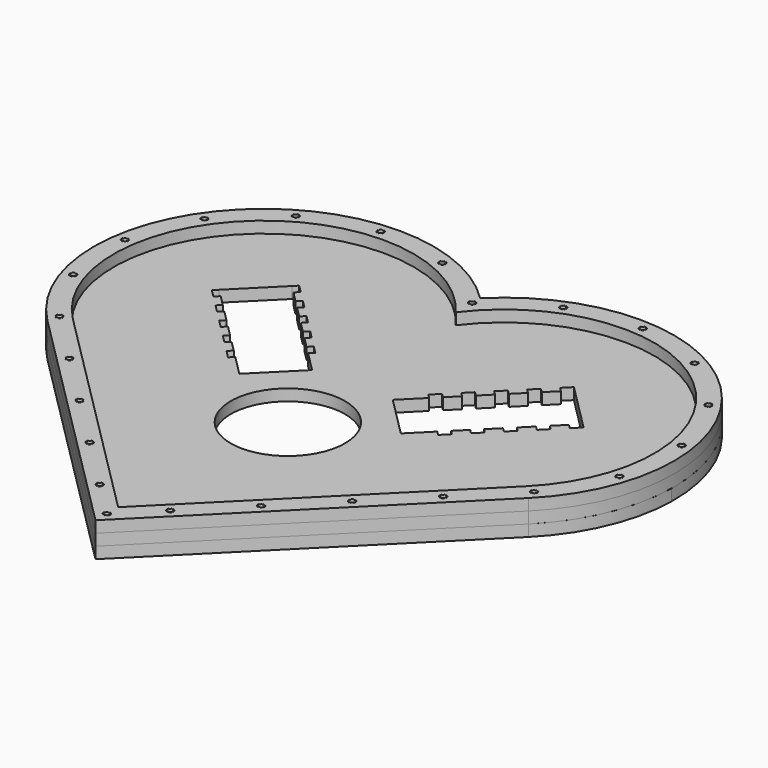
from build123d import *

# Parameters (mm, degrees)
F0_R     = 0.925
F0_R_2   = 20
F1_DEPTH = 4
F2_R     = 0.925
F3_DEPTH = 4
F4_R     = 0.925
F5_DEPTH = 4


with BuildPart() as f1:
    # F0 (on Top) → F1 (new body)
    with BuildSketch(Plane.XY):
        with BuildLine():
            Line((3.723077, -172.660318), (87.80843, -88.574965))
            ThreePointArc((87.80843, -88.574965), (87.80843, -4.489612), (3.723077, -4.489612))
            ThreePointArc((3.723077, -4.489612), (-80.362276, -4.489612), (-80.362276, -88.574965))
            Line((-80.362276, -88.574965), (3.723077, -172.660318))
        make_face()
        with BuildLine():
            Line((3.632598, -166.564135), (3.640466, -166.663825))
            ThreePointArc((3.640466, -166.663825), (2.673077, -167.710571), (3.640466, -168.757316))
            Line((3.640466, -168.757316), (3.632598, -168.857006))
            ThreePointArc((3.632598, -168.857006), (2.573077, -167.710571), (3.632598, -166.564135))
        make_face(mode=Mode.SUBTRACT)
        with Locations((3.723077, -167.710571)):
            Circle(F0_R, mode=Mode.SUBTRACT)
        with BuildLine():
            ThreePointArc((-8.682644, -156.541764), (-9.742165, -155.395329), (-8.682644, -154.248893))
            Line((-8.682644, -154.248893), (-8.674776, -154.348584))
            ThreePointArc((-8.674776, -154.348584), (-9.642165, -155.395329), (-8.674776, -156.442074))
            Line((-8.674776, -156.442074), (-8.682644, -156.541764))
        make_face(mode=Mode.SUBTRACT)
        with Locations((-8.592165, -155.395329)):
            Circle(F0_R, mode=Mode.SUBTRACT)
        with BuildLine():
            Line((-8.509554, -154.348584), (-8.501687, -154.248894))
            ThreePointArc((-8.501687, -154.248894), (-7.442165, -155.395329), (-8.501687, -156.541764))
            Line((-8.501687, -156.541764), (-8.509554, -156.442074))
            ThreePointArc((-8.509554, -156.442074), (-7.542165, -155.395329), (-8.509554, -154.348584))
        make_face(mode=Mode.SUBTRACT)
        with BuildLine():
            ThreePointArc((-26.360313, -138.864095), (-27.419835, -137.717659), (-26.360313, -136.571224))
            Line((-26.360313, -136.571224), (-26.352445, -136.670914))
            ThreePointArc((-26.352445, -136.670914), (-27.319835, -137.717659), (-26.352445, -138.764404))
            Line((-26.352445, -138.764404), (-26.360313, -138.864095))
        make_face(mode=Mode.SUBTRACT)
        with Locations((-26.269835, -137.717659)):
            Circle(F0_R, mode=Mode.SUBTRACT)
        with BuildLine():
            Line((-26.179356, -138.864095), (-26.187224, -138.764404))
            ThreePointArc((-26.187224, -138.764404), (-25.219835, -137.717659), (-26.187224, -136.670914))
            Line((-26.187224, -136.670914), (-26.179356, -136.571224))
            ThreePointArc((-26.179356, -136.571224), (-25.119835, -137.717659), (-26.179356, -138.864095))
        make_face(mode=Mode.SUBTRACT)
        with BuildLine():
            ThreePointArc((-79.360111, -83.612599), (-80.327501, -84.659344), (-79.360111, -85.70609))
            Line((-79.360111, -85.70609), (-79.367979, -85.80578))
            ThreePointArc((-79.367979, -85.80578), (-80.427501, -84.659344), (-79.367979, -83.512909))
            Line((-79.367979, -83.512909), (-79.360111, -83.612599))
        make_face(mode=Mode.SUBTRACT)
        with Locations((-79.277501, -84.659344)):
            Circle(F0_R, mode=Mode.SUBTRACT)
        with BuildLine():
            Line((-79.187022, -85.80578), (-79.19489, -85.70609))
            ThreePointArc((-79.19489, -85.70609), (-78.227501, -84.659344), (-79.19489, -83.612599))
            Line((-79.19489, -83.612599), (-79.187022, -83.512909))
            ThreePointArc((-79.187022, -83.512909), (-78.127501, -84.659344), (-79.187022, -85.80578))
        make_face(mode=Mode.SUBTRACT)
        with BuildLine():
            ThreePointArc((-61.707784, -101.315575), (-62.675174, -102.36232), (-61.707784, -103.409065))
            Line((-61.707784, -103.409065), (-61.715652, -103.508756))
            ThreePointArc((-61.715652, -103.508756), (-62.775174, -102.36232), (-61.715652, -101.215885))
            Line((-61.715652, -101.215885), (-61.707784, -101.315575))
        make_face(mode=Mode.SUBTRACT)
        with Locations((-61.625174, -102.36232)):
            Circle(F0_R, mode=Mode.SUBTRACT)
        with BuildLine():
            Line((-61.534695, -103.508755), (-61.542563, -103.409065))
            ThreePointArc((-61.542563, -103.409065), (-60.575174, -102.36232), (-61.542563, -101.315575))
            Line((-61.542563, -101.315575), (-61.534695, -101.215885))
            ThreePointArc((-61.534695, -101.215885), (-60.475174, -102.36232), (-61.534695, -103.508755))
        make_face(mode=Mode.SUBTRACT)
        with BuildLine():
            ThreePointArc((-44.030115, -118.993245), (-44.997504, -120.03999), (-44.030115, -121.086735))
            Line((-44.030115, -121.086735), (-44.037983, -121.186425))
            ThreePointArc((-44.037983, -121.186425), (-45.097504, -120.03999), (-44.037983, -118.893554))
            Line((-44.037983, -118.893554), (-44.030115, -118.993245))
        make_face(mode=Mode.SUBTRACT)
        with Locations((-43.947504, -120.03999)):
            Circle(F0_R, mode=Mode.SUBTRACT)
        with BuildLine():
            Line((-43.857026, -121.186425), (-43.864893, -121.086735))
            ThreePointArc((-43.864893, -121.086735), (-42.897504, -120.03999), (-43.864893, -118.993245))
            Line((-43.864893, -118.993245), (-43.857026, -118.893554))
            ThreePointArc((-43.857026, -118.893554), (-42.797504, -120.03999), (-43.857026, -121.186425))
        make_face(mode=Mode.SUBTRACT)
        with Locations((3.723077, -88.574965)):
            Circle(F0_R_2, mode=Mode.SUBTRACT)
        with BuildLine():
            Line((3.813555, -168.857006), (3.805687, -168.757316))
            ThreePointArc((3.805687, -168.757316), (4.773077, -167.710571), (3.805687, -166.663825))
            Line((3.805687, -166.663825), (3.813555, -166.564135))
            ThreePointArc((3.813555, -166.564135), (4.873077, -167.710571), (3.813555, -168.857006))
        make_face(mode=Mode.SUBTRACT)
        with BuildLine():
            Line((15.94784, -154.248894), (15.955708, -154.348584))
            ThreePointArc((15.955708, -154.348584), (14.988319, -155.395329), (15.955708, -156.442074))
            Line((15.955708, -156.442074), (15.94784, -156.541764))
            ThreePointArc((15.94784, -156.541764), (14.888319, -155.395329), (15.94784, -154.248894))
        make_face(mode=Mode.SUBTRACT)
        with Locations((16.038319, -155.395329)):
            Circle(F0_R, mode=Mode.SUBTRACT)
        with BuildLine():
            Line((16.128797, -156.541764), (16.120929, -156.442074))
            ThreePointArc((16.120929, -156.442074), (17.088319, -155.395329), (16.120929, -154.348584))
            Line((16.120929, -154.348584), (16.128797, -154.248893))
            ThreePointArc((16.128797, -154.248893), (17.188319, -155.395329), (16.128797, -156.541764))
        make_face(mode=Mode.SUBTRACT)
        with BuildLine():
            Line((33.62551, -136.571224), (33.633377, -136.670914))
            ThreePointArc((33.633377, -136.670914), (32.665988, -137.717659), (33.633377, -138.764404))
            Line((33.633377, -138.764404), (33.62551, -138.864095))
            ThreePointArc((33.62551, -138.864095), (32.565988, -137.717659), (33.62551, -136.571224))
        make_face(mode=Mode.SUBTRACT)
        with Locations((33.715988, -137.717659)):
            Circle(F0_R, mode=Mode.SUBTRACT)
        with BuildLine():
            Line((33.806467, -138.864095), (33.798599, -138.764404))
            ThreePointArc((33.798599, -138.764404), (34.765988, -137.717659), (33.798599, -136.670914))
            Line((33.798599, -136.670914), (33.806467, -136.571224))
            ThreePointArc((33.806467, -136.571224), (34.865988, -137.717659), (33.806467, -138.864095))
        make_face(mode=Mode.SUBTRACT)
        with BuildLine():
            Line((51.303179, -118.893554), (51.311047, -118.993245))
            ThreePointArc((51.311047, -118.993245), (50.343658, -120.03999), (51.311047, -121.086735))
            Line((51.311047, -121.086735), (51.303179, -121.186425))
            ThreePointArc((51.303179, -121.186425), (50.243658, -120.03999), (51.303179, -118.893554))
        make_face(mode=Mode.SUBTRACT)
        with Locations((51.393658, -120.03999)):
            Circle(F0_R, mode=Mode.SUBTRACT)
        with BuildLine():
            Line((51.484136, -121.186425), (51.476268, -121.086735))
            ThreePointArc((51.476268, -121.086735), (52.443658, -120.03999), (51.476268, -118.993245))
            Line((51.476268, -118.993245), (51.484136, -118.893554))
            ThreePointArc((51.484136, -118.893554), (52.543658, -120.03999), (51.484136, -121.186425))
        make_face(mode=Mode.SUBTRACT)
        with BuildLine():
            Line((68.980849, -101.215885), (68.988716, -101.315575))
            ThreePointArc((68.988716, -101.315575), (68.021327, -102.36232), (68.988716, -103.409065))
            Line((68.988716, -103.409065), (68.980849, -103.508755))
            ThreePointArc((68.980849, -103.508755), (67.921327, -102.36232), (68.980849, -101.215885))
        make_face(mode=Mode.SUBTRACT)
        with Locations((69.071327, -102.36232)):
            Circle(F0_R, mode=Mode.SUBTRACT)
        with BuildLine():
            Line((69.161806, -103.508756), (69.153938, -103.409065))
            ThreePointArc((69.153938, -103.409065), (70.121327, -102.36232), (69.153938, -101.315575))
            Line((69.153938, -101.315575), (69.161806, -101.215885))
            ThreePointArc((69.161806, -101.215885), (70.221327, -102.36232), (69.161806, -103.508756))
        make_face(mode=Mode.SUBTRACT)
        with BuildLine():
            Line((86.633176, -83.512909), (86.641043, -83.612599))
            ThreePointArc((86.641043, -83.612599), (85.673654, -84.659344), (86.641043, -85.70609))
            Line((86.641043, -85.70609), (86.633176, -85.80578))
            ThreePointArc((86.633176, -85.80578), (85.573654, -84.659344), (86.633176, -83.512909))
        make_face(mode=Mode.SUBTRACT)
        with Locations((86.723654, -84.659344)):
            Circle(F0_R, mode=Mode.SUBTRACT)
        with BuildLine():
            Line((86.814133, -85.80578), (86.806265, -85.70609))
            ThreePointArc((86.806265, -85.70609), (87.773654, -84.659344), (86.806265, -83.612599))
            Line((86.806265, -83.612599), (86.814133, -83.512909))
            ThreePointArc((86.814133, -83.512909), (87.873654, -84.659344), (86.814133, -85.80578))
        make_face(mode=Mode.SUBTRACT)
        with BuildLine():
            ThreePointArc((-91.883874, -64.164329), (-92.943396, -63.017894), (-91.883874, -61.871459))
            Line((-91.883874, -61.871459), (-91.876006, -61.971149))
            ThreePointArc((-91.876006, -61.971149), (-92.843396, -63.017894), (-91.876006, -64.064639))
            Line((-91.876006, -64.064639), (-91.883874, -64.164329))
        make_face(mode=Mode.SUBTRACT)
        with Locations((-91.793396, -63.017894)):
            Circle(F0_R, mode=Mode.SUBTRACT)
        with BuildLine():
            Line((-91.702917, -64.164329), (-91.710785, -64.064639))
            ThreePointArc((-91.710785, -64.064639), (-90.743396, -63.017894), (-91.710785, -61.971149))
            Line((-91.710785, -61.971149), (-91.702917, -61.871459))
            ThreePointArc((-91.702917, -61.871459), (-90.643396, -63.017894), (-91.702917, -64.164329))
        make_face(mode=Mode.SUBTRACT)
        with BuildLine():
            ThreePointArc((-93.718394, -37.039129), (-94.685783, -38.085874), (-93.718394, -39.13262))
            Line((-93.718394, -39.13262), (-93.726262, -39.23231))
            ThreePointArc((-93.726262, -39.23231), (-94.785783, -38.085874), (-93.726262, -36.939439))
            Line((-93.726262, -36.939439), (-93.718394, -37.039129))
        make_face(mode=Mode.SUBTRACT)
        with Locations((-93.635783, -38.085874)):
            Circle(F0_R, mode=Mode.SUBTRACT)
        with BuildLine():
            Line((-93.553172, -37.039129), (-93.545305, -36.939439))
            ThreePointArc((-93.545305, -36.939439), (-92.485783, -38.085874), (-93.545305, -39.23231))
            Line((-93.545305, -39.23231), (-93.553172, -39.13262))
            ThreePointArc((-93.553172, -39.13262), (-92.585783, -38.085874), (-93.553172, -37.039129))
        make_face(mode=Mode.SUBTRACT)
        Polygon((-53.474751, -45.519273), (-57.187061, -41.806962), (-58.601275, -43.221176), (-61.288281, -40.53417), (-59.874067, -39.119957), (-52.802999, -32.048889), (-45.731931, -24.977821), (-44.317718, -23.563607), (-41.630712, -26.250613), (-43.044926, -27.664827), (-39.332615, -31.377137), (-37.918402, -29.962924), (-35.231396, -32.64993), (-36.645609, -34.064143), (-32.933299, -37.776454), (-31.519085, -36.36224), (-28.832079, -39.049246), (-30.246293, -40.46346), (-26.533982, -44.17577), (-25.119769, -42.761557), (-22.432763, -45.448562), (-23.846977, -46.862776), (-20.134666, -50.575087), (-18.720452, -49.160873), (-16.033447, -51.847879), (-17.44766, -53.262092), (-10.376592, -60.33316), (-17.44766, -67.404228), (-24.518728, -74.475296), (-31.589796, -67.404228), (-33.004009, -68.818441), (-35.691015, -66.131436), (-34.276802, -64.717222), (-37.989112, -61.004912), (-39.403326, -62.419125), (-42.090332, -59.732119), (-40.676118, -58.317906), (-44.388429, -54.605595), (-45.802642, -56.019809), (-48.489648, -53.332803), (-47.075434, -51.918589), (-50.787745, -48.206279), (-52.201959, -49.620492), (-54.888964, -46.933487), align=None, mode=Mode.SUBTRACT)
        with BuildLine():
            ThreePointArc((-84.527396, -15.986216), (-85.586918, -14.839781), (-84.527396, -13.693345))
            Line((-84.527396, -13.693345), (-84.519528, -13.793035))
            ThreePointArc((-84.519528, -13.793035), (-85.486918, -14.839781), (-84.519528, -15.886526))
            Line((-84.519528, -15.886526), (-84.527396, -15.986216))
        make_face(mode=Mode.SUBTRACT)
        with Locations((-84.436918, -14.839781)):
            Circle(F0_R, mode=Mode.SUBTRACT)
        with BuildLine():
            Line((-84.354307, -13.793035), (-84.346439, -13.693345))
            ThreePointArc((-84.346439, -13.693345), (-83.286918, -14.839781), (-84.346439, -15.986216))
            Line((-84.346439, -15.986216), (-84.354307, -15.886526))
            ThreePointArc((-84.354307, -15.886526), (-83.386918, -14.839781), (-84.354307, -13.793035))
        make_face(mode=Mode.SUBTRACT)
        with BuildLine():
            ThreePointArc((-66.123395, 0.933971), (-67.182917, 2.080407), (-66.123395, 3.226842))
            Line((-66.123395, 3.226842), (-66.115527, 3.127152))
            ThreePointArc((-66.115527, 3.127152), (-67.082917, 2.080407), (-66.115527, 1.033662))
            Line((-66.115527, 1.033662), (-66.123395, 0.933971))
        make_face(mode=Mode.SUBTRACT)
        with Locations((-66.032917, 2.080407)):
            Circle(F0_R, mode=Mode.SUBTRACT)
        with BuildLine():
            Line((-65.950306, 3.127152), (-65.942438, 3.226842))
            ThreePointArc((-65.942438, 3.226842), (-64.882916, 2.080407), (-65.942438, 0.933972))
            Line((-65.942438, 0.933972), (-65.950306, 1.033662))
            ThreePointArc((-65.950306, 1.033662), (-64.982917, 2.080407), (-65.950306, 3.127152))
        make_face(mode=Mode.SUBTRACT)
        with BuildLine():
            ThreePointArc((-42.187744, 8.15094), (-43.247266, 9.297375), (-42.187744, 10.44381))
            Line((-42.187744, 10.44381), (-42.179877, 10.34412))
            ThreePointArc((-42.179877, 10.34412), (-43.147266, 9.297375), (-42.179877, 8.25063))
            Line((-42.179877, 8.25063), (-42.187744, 8.15094))
        make_face(mode=Mode.SUBTRACT)
        with Locations((-42.097266, 9.297375)):
            Circle(F0_R, mode=Mode.SUBTRACT)
        with BuildLine():
            Line((-42.014655, 10.34412), (-42.006787, 10.44381))
            ThreePointArc((-42.006787, 10.44381), (-40.947266, 9.297375), (-42.006787, 8.15094))
            Line((-42.006787, 8.15094), (-42.014655, 8.25063))
            ThreePointArc((-42.014655, 8.25063), (-41.047266, 9.297375), (-42.014655, 10.34412))
        make_face(mode=Mode.SUBTRACT)
        with BuildLine():
            Line((3.632598, -6.843176), (3.640466, -6.942866))
            ThreePointArc((3.640466, -6.942866), (2.673077, -7.989612), (3.640466, -9.036357))
            Line((3.640466, -9.036357), (3.632598, -9.136047))
            ThreePointArc((3.632598, -9.136047), (2.573077, -7.989612), (3.632598, -6.843176))
        make_face(mode=Mode.SUBTRACT)
        with BuildLine():
            ThreePointArc((-17.490194, 6.417343), (-18.457583, 5.370598), (-17.490194, 4.323853))
            Line((-17.490194, 4.323853), (-17.498062, 4.224163))
            ThreePointArc((-17.498062, 4.224163), (-18.557584, 5.370598), (-17.498062, 6.517033))
            Line((-17.498062, 6.517033), (-17.490194, 6.417343))
        make_face(mode=Mode.SUBTRACT)
        with Locations((-17.407583, 5.370598)):
            Circle(F0_R, mode=Mode.SUBTRACT)
        with BuildLine():
            Line((-17.317105, 4.224163), (-17.324973, 4.323853))
            ThreePointArc((-17.324973, 4.323853), (-16.357583, 5.370598), (-17.324973, 6.417343))
            Line((-17.324973, 6.417343), (-17.317105, 6.517033))
            ThreePointArc((-17.317105, 6.517033), (-16.257583, 5.370598), (-17.317105, 4.224163))
        make_face(mode=Mode.SUBTRACT)
        Polygon((67.320221, -39.119957), (68.734434, -40.53417), (66.047428, -43.221176), (64.633215, -41.806962), (60.920904, -45.519273), (62.335118, -46.933487), (59.648112, -49.620492), (58.233898, -48.206279), (54.521588, -51.918589), (55.935801, -53.332803), (53.248796, -56.019809), (51.834582, -54.605595), (48.122271, -58.317906), (49.536485, -59.732119), (46.849479, -62.419125), (45.435266, -61.004912), (41.722955, -64.717222), (43.137169, -66.131436), (40.450163, -68.818441), (39.035949, -67.404228), (31.964881, -74.475296), (24.893814, -67.404228), (17.822746, -60.33316), (24.893814, -53.262092), (23.4796, -51.847879), (26.166606, -49.160873), (27.580819, -50.575087), (31.29313, -46.862776), (29.878916, -45.448562), (32.565922, -42.761557), (33.980136, -44.17577), (37.692446, -40.46346), (36.278233, -39.049246), (38.965239, -36.36224), (40.379452, -37.776454), (44.091763, -34.064143), (42.677549, -32.64993), (45.364555, -29.962924), (46.778769, -31.377137), (50.491079, -27.664827), (49.076866, -26.250613), (51.763871, -23.563607), (53.178085, -24.977821), (60.249153, -32.048889), align=None, mode=Mode.SUBTRACT)
        with BuildLine():
            Line((99.149071, -61.871459), (99.156938, -61.971149))
            ThreePointArc((99.156938, -61.971149), (98.189549, -63.017894), (99.156938, -64.064639))
            Line((99.156938, -64.064639), (99.149071, -64.164329))
            ThreePointArc((99.149071, -64.164329), (98.089549, -63.017894), (99.149071, -61.871459))
        make_face(mode=Mode.SUBTRACT)
        with Locations((99.239549, -63.017894)):
            Circle(F0_R, mode=Mode.SUBTRACT)
        with BuildLine():
            Line((99.330028, -64.164329), (99.32216, -64.064639))
            ThreePointArc((99.32216, -64.064639), (100.289549, -63.017894), (99.32216, -61.971149))
            Line((99.32216, -61.971149), (99.330028, -61.871459))
            ThreePointArc((99.330028, -61.871459), (100.389549, -63.017894), (99.330028, -64.164329))
        make_face(mode=Mode.SUBTRACT)
        with BuildLine():
            Line((100.991458, -36.939439), (100.999326, -37.039129))
            ThreePointArc((100.999326, -37.039129), (100.031937, -38.085874), (100.999326, -39.13262))
            Line((100.999326, -39.13262), (100.991458, -39.23231))
            ThreePointArc((100.991458, -39.23231), (99.931937, -38.085874), (100.991458, -36.939439))
        make_face(mode=Mode.SUBTRACT)
        with Locations((101.081937, -38.085874)):
            Circle(F0_R, mode=Mode.SUBTRACT)
        with BuildLine():
            Line((101.172415, -39.23231), (101.164547, -39.13262))
            ThreePointArc((101.164547, -39.13262), (102.131937, -38.085874), (101.164547, -37.039129))
            Line((101.164547, -37.039129), (101.172415, -36.939439))
            ThreePointArc((101.172415, -36.939439), (102.231937, -38.085874), (101.172415, -39.23231))
        make_face(mode=Mode.SUBTRACT)
        with Locations((3.723077, -7.989612)):
            Circle(F0_R, mode=Mode.SUBTRACT)
        with BuildLine():
            Line((3.813555, -9.136047), (3.805687, -9.036357))
            ThreePointArc((3.805687, -9.036357), (4.773077, -7.989612), (3.805687, -6.942866))
            Line((3.805687, -6.942866), (3.813555, -6.843176))
            ThreePointArc((3.813555, -6.843176), (4.873077, -7.989612), (3.813555, -9.136047))
        make_face(mode=Mode.SUBTRACT)
        with BuildLine():
            Line((24.763258, 6.517033), (24.771126, 6.417343))
            ThreePointArc((24.771126, 6.417343), (23.803737, 5.370598), (24.771126, 4.323853))
            Line((24.771126, 4.323853), (24.763258, 4.224163))
            ThreePointArc((24.763258, 4.224163), (23.703737, 5.370598), (24.763258, 6.517033))
        make_face(mode=Mode.SUBTRACT)
        with Locations((24.853737, 5.370598)):
            Circle(F0_R, mode=Mode.SUBTRACT)
        with BuildLine():
            Line((24.944215, 4.224163), (24.936348, 4.323853))
            ThreePointArc((24.936348, 4.323853), (25.903737, 5.370598), (24.936348, 6.417343))
            Line((24.936348, 6.417343), (24.944215, 6.517033))
            ThreePointArc((24.944215, 6.517033), (26.003737, 5.370598), (24.944215, 4.224163))
        make_face(mode=Mode.SUBTRACT)
        with BuildLine():
            Line((49.452941, 10.44381), (49.460809, 10.34412))
            ThreePointArc((49.460809, 10.34412), (48.493419, 9.297375), (49.460809, 8.25063))
            Line((49.460809, 8.25063), (49.452941, 8.15094))
            ThreePointArc((49.452941, 8.15094), (48.393419, 9.297375), (49.452941, 10.44381))
        make_face(mode=Mode.SUBTRACT)
        with Locations((49.543419, 9.297375)):
            Circle(F0_R, mode=Mode.SUBTRACT)
        with BuildLine():
            Line((49.633898, 8.15094), (49.62603, 8.25063))
            ThreePointArc((49.62603, 8.25063), (50.593419, 9.297375), (49.62603, 10.34412))
            Line((49.62603, 10.34412), (49.633898, 10.44381))
            ThreePointArc((49.633898, 10.44381), (50.69342, 9.297375), (49.633898, 8.15094))
        make_face(mode=Mode.SUBTRACT)
        with BuildLine():
            Line((91.792593, -13.693345), (91.80046, -13.793035))
            ThreePointArc((91.80046, -13.793035), (90.833071, -14.839781), (91.80046, -15.886526))
            Line((91.80046, -15.886526), (91.792593, -15.986216))
            ThreePointArc((91.792593, -15.986216), (90.733071, -14.839781), (91.792593, -13.693345))
        make_face(mode=Mode.SUBTRACT)
        with Locations((91.883071, -14.839781)):
            Circle(F0_R, mode=Mode.SUBTRACT)
        with BuildLine():
            Line((91.97355, -15.986216), (91.965682, -15.886526))
            ThreePointArc((91.965682, -15.886526), (92.933071, -14.839781), (91.965682, -13.793035))
            Line((91.965682, -13.793035), (91.97355, -13.693345))
            ThreePointArc((91.97355, -13.693345), (93.033071, -14.839781), (91.97355, -15.986216))
        make_face(mode=Mode.SUBTRACT)
        with BuildLine():
            Line((73.388592, 3.226842), (73.396459, 3.127152))
            ThreePointArc((73.396459, 3.127152), (72.42907, 2.080407), (73.396459, 1.033662))
            Line((73.396459, 1.033662), (73.388592, 0.933972))
            ThreePointArc((73.388592, 0.933972), (72.32907, 2.080407), (73.388592, 3.226842))
        make_face(mode=Mode.SUBTRACT)
        with Locations((73.47907, 2.080407)):
            Circle(F0_R, mode=Mode.SUBTRACT)
        with BuildLine():
            Line((73.569548, 0.933971), (73.561681, 1.033662))
            ThreePointArc((73.561681, 1.033662), (74.52907, 2.080407), (73.561681, 3.127152))
            Line((73.561681, 3.127152), (73.569548, 3.226842))
            ThreePointArc((73.569548, 3.226842), (74.62907, 2.080407), (73.569548, 0.933971))
        make_face(mode=Mode.SUBTRACT)
    extrude(amount=F1_DEPTH)


with BuildPart() as f3:
    # F2 (on face) → F3 (new body)
    with BuildSketch(Plane.XY.offset(4)):
        with BuildLine():
            ThreePointArc((3.723077, -4.489614), (-80.362274, -4.489612), (-80.362275, -88.574963))
            Line((-80.362275, -88.574963), (3.723077, -172.660316))
            Line((3.723077, -172.660316), (87.808429, -88.574964))
            ThreePointArc((87.808429, -88.574964), (87.808428, -4.489612), (3.723077, -4.489614))
        make_face()
        with BuildLine():
            ThreePointArc((3.632598, -168.857006), (2.573077, -167.710571), (3.632598, -166.564135))
            Line((3.632598, -166.564135), (3.640466, -166.663825))
            ThreePointArc((3.640466, -166.663825), (2.673077, -167.710571), (3.640466, -168.757316))
            Line((3.640466, -168.757316), (3.632598, -168.857006))
        make_face(mode=Mode.SUBTRACT)
        with Locations((3.723077, -167.710571)):
            Circle(F2_R, mode=Mode.SUBTRACT)
        with BuildLine():
            Line((-8.674776, -156.442074), (-8.682644, -156.541764))
            ThreePointArc((-8.682644, -156.541764), (-9.742165, -155.395329), (-8.682644, -154.248893))
            Line((-8.682644, -154.248893), (-8.674776, -154.348584))
            ThreePointArc((-8.674776, -154.348584), (-9.642165, -155.395329), (-8.674776, -156.442074))
        make_face(mode=Mode.SUBTRACT)
        with Locations((-8.592165, -155.395329)):
            Circle(F2_R, mode=Mode.SUBTRACT)
        with BuildLine():
            Line((-8.501687, -156.541764), (-8.509554, -156.442074))
            ThreePointArc((-8.509554, -156.442074), (-7.542165, -155.395329), (-8.509554, -154.348584))
            Line((-8.509554, -154.348584), (-8.501687, -154.248894))
            ThreePointArc((-8.501687, -154.248894), (-7.442165, -155.395329), (-8.501687, -156.541764))
        make_face(mode=Mode.SUBTRACT)
        with BuildLine():
            Line((-26.352445, -138.764404), (-26.360313, -138.864095))
            ThreePointArc((-26.360313, -138.864095), (-27.419835, -137.717659), (-26.360313, -136.571224))
            Line((-26.360313, -136.571224), (-26.352445, -136.670914))
            ThreePointArc((-26.352445, -136.670914), (-27.319835, -137.717659), (-26.352445, -138.764404))
        make_face(mode=Mode.SUBTRACT)
        with Locations((-26.269835, -137.717659)):
            Circle(F2_R, mode=Mode.SUBTRACT)
        with BuildLine():
            ThreePointArc((-26.187224, -138.764404), (-25.219835, -137.717659), (-26.187224, -136.670914))
            Line((-26.187224, -136.670914), (-26.179356, -136.571224))
            ThreePointArc((-26.179356, -136.571224), (-25.119835, -137.717659), (-26.179356, -138.864095))
            Line((-26.179356, -138.864095), (-26.187224, -138.764404))
        make_face(mode=Mode.SUBTRACT)
        with BuildLine():
            ThreePointArc((-79.367979, -85.80578), (-80.427501, -84.659344), (-79.367979, -83.512909))
            Line((-79.367979, -83.512909), (-79.360111, -83.612599))
            ThreePointArc((-79.360111, -83.612599), (-80.327501, -84.659344), (-79.360111, -85.70609))
            Line((-79.360111, -85.70609), (-79.367979, -85.80578))
        make_face(mode=Mode.SUBTRACT)
        with Locations((-79.277501, -84.659344)):
            Circle(F2_R, mode=Mode.SUBTRACT)
        with BuildLine():
            ThreePointArc((-79.19489, -85.70609), (-78.227501, -84.659344), (-79.19489, -83.612599))
            Line((-79.19489, -83.612599), (-79.187022, -83.512909))
            ThreePointArc((-79.187022, -83.512909), (-78.127501, -84.659344), (-79.187022, -85.80578))
            Line((-79.187022, -85.80578), (-79.19489, -85.70609))
        make_face(mode=Mode.SUBTRACT)
        with BuildLine():
            Line((-61.715652, -101.215885), (-61.707784, -101.315575))
            ThreePointArc((-61.707784, -101.315575), (-62.675174, -102.36232), (-61.707784, -103.409065))
            Line((-61.707784, -103.409065), (-61.715652, -103.508756))
            ThreePointArc((-61.715652, -103.508756), (-62.775174, -102.36232), (-61.715652, -101.215885))
        make_face(mode=Mode.SUBTRACT)
        with Locations((-61.625174, -102.36232)):
            Circle(F2_R, mode=Mode.SUBTRACT)
        with BuildLine():
            ThreePointArc((-61.534695, -101.215885), (-60.475174, -102.36232), (-61.534695, -103.508755))
            Line((-61.534695, -103.508755), (-61.542563, -103.409065))
            ThreePointArc((-61.542563, -103.409065), (-60.575174, -102.36232), (-61.542563, -101.315575))
            Line((-61.542563, -101.315575), (-61.534695, -101.215885))
        make_face(mode=Mode.SUBTRACT)
        with BuildLine():
            ThreePointArc((-44.037983, -121.186425), (-45.097504, -120.03999), (-44.037983, -118.893554))
            Line((-44.037983, -118.893554), (-44.030115, -118.993245))
            ThreePointArc((-44.030115, -118.993245), (-44.997504, -120.03999), (-44.030115, -121.086735))
            Line((-44.030115, -121.086735), (-44.037983, -121.186425))
        make_face(mode=Mode.SUBTRACT)
        with Locations((-43.947504, -120.03999)):
            Circle(F2_R, mode=Mode.SUBTRACT)
        with BuildLine():
            ThreePointArc((-43.857026, -118.893554), (-42.797504, -120.03999), (-43.857026, -121.186425))
            Line((-43.857026, -121.186425), (-43.864893, -121.086735))
            ThreePointArc((-43.864893, -121.086735), (-42.897504, -120.03999), (-43.864893, -118.993245))
            Line((-43.864893, -118.993245), (-43.857026, -118.893554))
        make_face(mode=Mode.SUBTRACT)
        with BuildLine():
            ThreePointArc((3.813555, -166.564135), (4.873077, -167.710571), (3.813555, -168.857006))
            Line((3.813555, -168.857006), (3.805687, -168.757316))
            ThreePointArc((3.805687, -168.757316), (4.773077, -167.710571), (3.805687, -166.663825))
            Line((3.805687, -166.663825), (3.813555, -166.564135))
        make_face(mode=Mode.SUBTRACT)
        with BuildLine():
            Line((15.955708, -156.442074), (15.94784, -156.541764))
            ThreePointArc((15.94784, -156.541764), (14.888319, -155.395329), (15.94784, -154.248894))
            Line((15.94784, -154.248894), (15.955708, -154.348584))
            ThreePointArc((15.955708, -154.348584), (14.988319, -155.395329), (15.955708, -156.442074))
        make_face(mode=Mode.SUBTRACT)
        with Locations((16.038319, -155.395329)):
            Circle(F2_R, mode=Mode.SUBTRACT)
        with BuildLine():
            ThreePointArc((16.128797, -154.248893), (17.188319, -155.395329), (16.128797, -156.541764))
            Line((16.128797, -156.541764), (16.120929, -156.442074))
            ThreePointArc((16.120929, -156.442074), (17.088319, -155.395329), (16.120929, -154.348584))
            Line((16.120929, -154.348584), (16.128797, -154.248893))
        make_face(mode=Mode.SUBTRACT)
        with BuildLine():
            ThreePointArc((33.633377, -136.670914), (32.665988, -137.717659), (33.633377, -138.764404))
            Line((33.633377, -138.764404), (33.62551, -138.864095))
            ThreePointArc((33.62551, -138.864095), (32.565988, -137.717659), (33.62551, -136.571224))
            Line((33.62551, -136.571224), (33.633377, -136.670914))
        make_face(mode=Mode.SUBTRACT)
        with Locations((33.715988, -137.717659)):
            Circle(F2_R, mode=Mode.SUBTRACT)
        with BuildLine():
            ThreePointArc((33.806467, -136.571224), (34.865988, -137.717659), (33.806467, -138.864095))
            Line((33.806467, -138.864095), (33.798599, -138.764404))
            ThreePointArc((33.798599, -138.764404), (34.765988, -137.717659), (33.798599, -136.670914))
            Line((33.798599, -136.670914), (33.806467, -136.571224))
        make_face(mode=Mode.SUBTRACT)
        with BuildLine():
            Line((51.311047, -121.086735), (51.303179, -121.186425))
            ThreePointArc((51.303179, -121.186425), (50.243658, -120.03999), (51.303179, -118.893554))
            Line((51.303179, -118.893554), (51.311047, -118.993245))
            ThreePointArc((51.311047, -118.993245), (50.343658, -120.03999), (51.311047, -121.086735))
        make_face(mode=Mode.SUBTRACT)
        with Locations((51.393658, -120.03999)):
            Circle(F2_R, mode=Mode.SUBTRACT)
        with BuildLine():
            ThreePointArc((51.484136, -118.893554), (52.543658, -120.03999), (51.484136, -121.186425))
            Line((51.484136, -121.186425), (51.476268, -121.086735))
            ThreePointArc((51.476268, -121.086735), (52.443658, -120.03999), (51.476268, -118.993245))
            Line((51.476268, -118.993245), (51.484136, -118.893554))
        make_face(mode=Mode.SUBTRACT)
        with BuildLine():
            ThreePointArc((68.980849, -103.508755), (67.921327, -102.36232), (68.980849, -101.215885))
            Line((68.980849, -101.215885), (68.988716, -101.315575))
            ThreePointArc((68.988716, -101.315575), (68.021327, -102.36232), (68.988716, -103.409065))
            Line((68.988716, -103.409065), (68.980849, -103.508755))
        make_face(mode=Mode.SUBTRACT)
        with Locations((69.071327, -102.36232)):
            Circle(F2_R, mode=Mode.SUBTRACT)
        with BuildLine():
            Line((69.153938, -101.315575), (69.161806, -101.215885))
            ThreePointArc((69.161806, -101.215885), (70.221327, -102.36232), (69.161806, -103.508756))
            Line((69.161806, -103.508756), (69.153938, -103.409065))
            ThreePointArc((69.153938, -103.409065), (70.121327, -102.36232), (69.153938, -101.315575))
        make_face(mode=Mode.SUBTRACT)
        with BuildLine():
            ThreePointArc((86.641043, -83.612599), (85.673654, -84.659344), (86.641043, -85.70609))
            Line((86.641043, -85.70609), (86.633176, -85.80578))
            ThreePointArc((86.633176, -85.80578), (85.573654, -84.659344), (86.633176, -83.512909))
            Line((86.633176, -83.512909), (86.641043, -83.612599))
        make_face(mode=Mode.SUBTRACT)
        with Locations((86.723654, -84.659344)):
            Circle(F2_R, mode=Mode.SUBTRACT)
        with BuildLine():
            ThreePointArc((86.814133, -83.512909), (87.873654, -84.659344), (86.814133, -85.80578))
            Line((86.814133, -85.80578), (86.806265, -85.70609))
            ThreePointArc((86.806265, -85.70609), (87.773654, -84.659344), (86.806265, -83.612599))
            Line((86.806265, -83.612599), (86.814133, -83.512909))
        make_face(mode=Mode.SUBTRACT)
        with BuildLine():
            ThreePointArc((-91.883874, -64.164329), (-92.943396, -63.017894), (-91.883874, -61.871459))
            Line((-91.883874, -61.871459), (-91.876006, -61.971149))
            ThreePointArc((-91.876006, -61.971149), (-92.843396, -63.017894), (-91.876006, -64.064639))
            Line((-91.876006, -64.064639), (-91.883874, -64.164329))
        make_face(mode=Mode.SUBTRACT)
        with Locations((-91.793396, -63.017894)):
            Circle(F2_R, mode=Mode.SUBTRACT)
        with BuildLine():
            Line((-91.710785, -61.971149), (-91.702917, -61.871459))
            ThreePointArc((-91.702917, -61.871459), (-90.643396, -63.017894), (-91.702917, -64.164329))
            Line((-91.702917, -64.164329), (-91.710785, -64.064639))
            ThreePointArc((-91.710785, -64.064639), (-90.743396, -63.017894), (-91.710785, -61.971149))
        make_face(mode=Mode.SUBTRACT)
        with BuildLine():
            Line((-93.718394, -39.13262), (-93.726262, -39.23231))
            ThreePointArc((-93.726262, -39.23231), (-94.785783, -38.085874), (-93.726262, -36.939439))
            Line((-93.726262, -36.939439), (-93.718394, -37.039129))
            ThreePointArc((-93.718394, -37.039129), (-94.685783, -38.085874), (-93.718394, -39.13262))
        make_face(mode=Mode.SUBTRACT)
        with Locations((-93.635783, -38.085874)):
            Circle(F2_R, mode=Mode.SUBTRACT)
        with BuildLine():
            Line((-93.545305, -39.23231), (-93.553172, -39.13262))
            ThreePointArc((-93.553172, -39.13262), (-92.585783, -38.085874), (-93.553172, -37.039129))
            Line((-93.553172, -37.039129), (-93.545305, -36.939439))
            ThreePointArc((-93.545305, -36.939439), (-92.485783, -38.085874), (-93.545305, -39.23231))
        make_face(mode=Mode.SUBTRACT)
        with BuildLine():
            Line((-84.519528, -15.886526), (-84.527396, -15.986216))
            ThreePointArc((-84.527396, -15.986216), (-85.586918, -14.839781), (-84.527396, -13.693345))
            Line((-84.527396, -13.693345), (-84.519528, -13.793035))
            ThreePointArc((-84.519528, -13.793035), (-85.486918, -14.839781), (-84.519528, -15.886526))
        make_face(mode=Mode.SUBTRACT)
        with Locations((-84.436918, -14.839781)):
            Circle(F2_R, mode=Mode.SUBTRACT)
        with BuildLine():
            ThreePointArc((-84.354307, -15.886526), (-83.386918, -14.839781), (-84.354307, -13.793035))
            Line((-84.354307, -13.793035), (-84.346439, -13.693345))
            ThreePointArc((-84.346439, -13.693345), (-83.286918, -14.839781), (-84.346439, -15.986216))
            Line((-84.346439, -15.986216), (-84.354307, -15.886526))
        make_face(mode=Mode.SUBTRACT)
        with BuildLine():
            ThreePointArc((-66.115527, 3.127152), (-67.082917, 2.080407), (-66.115527, 1.033662))
            Line((-66.115527, 1.033662), (-66.123395, 0.933971))
            ThreePointArc((-66.123395, 0.933971), (-67.182917, 2.080407), (-66.123395, 3.226842))
            Line((-66.123395, 3.226842), (-66.115527, 3.127152))
        make_face(mode=Mode.SUBTRACT)
        with Locations((-66.032917, 2.080407)):
            Circle(F2_R, mode=Mode.SUBTRACT)
        with BuildLine():
            ThreePointArc((-65.950306, 1.033662), (-64.982917, 2.080407), (-65.950306, 3.127152))
            Line((-65.950306, 3.127152), (-65.942438, 3.226842))
            ThreePointArc((-65.942438, 3.226842), (-64.882916, 2.080407), (-65.942438, 0.933972))
            Line((-65.942438, 0.933972), (-65.950306, 1.033662))
        make_face(mode=Mode.SUBTRACT)
        with BuildLine():
            Line((-42.179877, 8.25063), (-42.187744, 8.15094))
            ThreePointArc((-42.187744, 8.15094), (-43.247266, 9.297375), (-42.187744, 10.44381))
            Line((-42.187744, 10.44381), (-42.179877, 10.34412))
            ThreePointArc((-42.179877, 10.34412), (-43.147266, 9.297375), (-42.179877, 8.25063))
        make_face(mode=Mode.SUBTRACT)
        with Locations((-42.097266, 9.297375)):
            Circle(F2_R, mode=Mode.SUBTRACT)
        with BuildLine():
            Line((-42.006787, 8.15094), (-42.014655, 8.25063))
            ThreePointArc((-42.014655, 8.25063), (-41.047266, 9.297375), (-42.014655, 10.34412))
            Line((-42.014655, 10.34412), (-42.006787, 10.44381))
            ThreePointArc((-42.006787, 10.44381), (-40.947266, 9.297375), (-42.006787, 8.15094))
        make_face(mode=Mode.SUBTRACT)
        with BuildLine():
            Line((3.640466, -9.036357), (3.632598, -9.136047))
            ThreePointArc((3.632598, -9.136047), (2.573077, -7.989612), (3.632598, -6.843176))
            Line((3.632598, -6.843176), (3.640466, -6.942866))
            ThreePointArc((3.640466, -6.942866), (2.673077, -7.989612), (3.640466, -9.036357))
        make_face(mode=Mode.SUBTRACT)
        with BuildLine():
            Line((-17.490194, 4.323853), (-17.498062, 4.224163))
            ThreePointArc((-17.498062, 4.224163), (-18.557584, 5.370598), (-17.498062, 6.517033))
            Line((-17.498062, 6.517033), (-17.490194, 6.417343))
            ThreePointArc((-17.490194, 6.417343), (-18.457583, 5.370598), (-17.490194, 4.323853))
        make_face(mode=Mode.SUBTRACT)
        with Locations((-17.407583, 5.370598)):
            Circle(F2_R, mode=Mode.SUBTRACT)
        with BuildLine():
            ThreePointArc((-17.324973, 4.323853), (-16.357583, 5.370598), (-17.324973, 6.417343))
            Line((-17.324973, 6.417343), (-17.317105, 6.517033))
            ThreePointArc((-17.317105, 6.517033), (-16.257583, 5.370598), (-17.317105, 4.224163))
            Line((-17.317105, 4.224163), (-17.324973, 4.323853))
        make_face(mode=Mode.SUBTRACT)
        with BuildLine():
            Line((3.723077, -162.760821), (-75.412528, -83.625216))
            ThreePointArc((-75.412528, -83.625216), (-72.641262, -6.861215), (3.723077, -15.160582))
            ThreePointArc((3.723077, -15.160582), (80.087416, -6.861215), (82.858681, -83.625216))
            Line((82.858681, -83.625216), (3.723077, -162.760821))
        make_face(mode=Mode.SUBTRACT)
        with BuildLine():
            Line((99.156938, -64.064639), (99.149071, -64.164329))
            ThreePointArc((99.149071, -64.164329), (98.089549, -63.017894), (99.149071, -61.871459))
            Line((99.149071, -61.871459), (99.156938, -61.971149))
            ThreePointArc((99.156938, -61.971149), (98.189549, -63.017894), (99.156938, -64.064639))
        make_face(mode=Mode.SUBTRACT)
        with Locations((99.239549, -63.017894)):
            Circle(F2_R, mode=Mode.SUBTRACT)
        with BuildLine():
            Line((99.32216, -61.971149), (99.330028, -61.871459))
            ThreePointArc((99.330028, -61.871459), (100.389549, -63.017894), (99.330028, -64.164329))
            Line((99.330028, -64.164329), (99.32216, -64.064639))
            ThreePointArc((99.32216, -64.064639), (100.289549, -63.017894), (99.32216, -61.971149))
        make_face(mode=Mode.SUBTRACT)
        with BuildLine():
            ThreePointArc((100.999326, -37.039129), (100.031937, -38.085874), (100.999326, -39.13262))
            Line((100.999326, -39.13262), (100.991458, -39.23231))
            ThreePointArc((100.991458, -39.23231), (99.931937, -38.085874), (100.991458, -36.939439))
            Line((100.991458, -36.939439), (100.999326, -37.039129))
        make_face(mode=Mode.SUBTRACT)
        with Locations((101.081937, -38.085874)):
            Circle(F2_R, mode=Mode.SUBTRACT)
        with BuildLine():
            ThreePointArc((101.172415, -36.939439), (102.231937, -38.085874), (101.172415, -39.23231))
            Line((101.172415, -39.23231), (101.164547, -39.13262))
            ThreePointArc((101.164547, -39.13262), (102.131937, -38.085874), (101.164547, -37.039129))
            Line((101.164547, -37.039129), (101.172415, -36.939439))
        make_face(mode=Mode.SUBTRACT)
        with Locations((3.723077, -7.989612)):
            Circle(F2_R, mode=Mode.SUBTRACT)
        with BuildLine():
            Line((3.805687, -6.942866), (3.813555, -6.843176))
            ThreePointArc((3.813555, -6.843176), (4.873077, -7.989612), (3.813555, -9.136047))
            Line((3.813555, -9.136047), (3.805687, -9.036357))
            ThreePointArc((3.805687, -9.036357), (4.773077, -7.989612), (3.805687, -6.942866))
        make_face(mode=Mode.SUBTRACT)
        with BuildLine():
            Line((24.771126, 4.323853), (24.763258, 4.224163))
            ThreePointArc((24.763258, 4.224163), (23.703737, 5.370598), (24.763258, 6.517033))
            Line((24.763258, 6.517033), (24.771126, 6.417343))
            ThreePointArc((24.771126, 6.417343), (23.803737, 5.370598), (24.771126, 4.323853))
        make_face(mode=Mode.SUBTRACT)
        with Locations((24.853737, 5.370598)):
            Circle(F2_R, mode=Mode.SUBTRACT)
        with BuildLine():
            ThreePointArc((24.944215, 6.517033), (26.003737, 5.370598), (24.944215, 4.224163))
            Line((24.944215, 4.224163), (24.936348, 4.323853))
            ThreePointArc((24.936348, 4.323853), (25.903737, 5.370598), (24.936348, 6.417343))
            Line((24.936348, 6.417343), (24.944215, 6.517033))
        make_face(mode=Mode.SUBTRACT)
        with BuildLine():
            ThreePointArc((49.452941, 8.15094), (48.393419, 9.297375), (49.452941, 10.44381))
            Line((49.452941, 10.44381), (49.460809, 10.34412))
            ThreePointArc((49.460809, 10.34412), (48.493419, 9.297375), (49.460809, 8.25063))
            Line((49.460809, 8.25063), (49.452941, 8.15094))
        make_face(mode=Mode.SUBTRACT)
        with Locations((49.543419, 9.297375)):
            Circle(F2_R, mode=Mode.SUBTRACT)
        with BuildLine():
            ThreePointArc((49.633898, 10.44381), (50.69342, 9.297375), (49.633898, 8.15094))
            Line((49.633898, 8.15094), (49.62603, 8.25063))
            ThreePointArc((49.62603, 8.25063), (50.593419, 9.297375), (49.62603, 10.34412))
            Line((49.62603, 10.34412), (49.633898, 10.44381))
        make_face(mode=Mode.SUBTRACT)
        with BuildLine():
            ThreePointArc((91.80046, -13.793035), (90.833071, -14.839781), (91.80046, -15.886526))
            Line((91.80046, -15.886526), (91.792593, -15.986216))
            ThreePointArc((91.792593, -15.986216), (90.733071, -14.839781), (91.792593, -13.693345))
            Line((91.792593, -13.693345), (91.80046, -13.793035))
        make_face(mode=Mode.SUBTRACT)
        with Locations((91.883071, -14.839781)):
            Circle(F2_R, mode=Mode.SUBTRACT)
        with BuildLine():
            ThreePointArc((91.97355, -13.693345), (93.033071, -14.839781), (91.97355, -15.986216))
            Line((91.97355, -15.986216), (91.965682, -15.886526))
            ThreePointArc((91.965682, -15.886526), (92.933071, -14.839781), (91.965682, -13.793035))
            Line((91.965682, -13.793035), (91.97355, -13.693345))
        make_face(mode=Mode.SUBTRACT)
        with BuildLine():
            ThreePointArc((73.396459, 3.127152), (72.42907, 2.080407), (73.396459, 1.033662))
            Line((73.396459, 1.033662), (73.388592, 0.933972))
            ThreePointArc((73.388592, 0.933972), (72.32907, 2.080407), (73.388592, 3.226842))
            Line((73.388592, 3.226842), (73.396459, 3.127152))
        make_face(mode=Mode.SUBTRACT)
        with Locations((73.47907, 2.080407)):
            Circle(F2_R, mode=Mode.SUBTRACT)
        with BuildLine():
            Line((73.561681, 3.127152), (73.569548, 3.226842))
            ThreePointArc((73.569548, 3.226842), (74.62907, 2.080407), (73.569548, 0.933971))
            Line((73.569548, 0.933971), (73.561681, 1.033662))
            ThreePointArc((73.561681, 1.033662), (74.52907, 2.080407), (73.561681, 3.127152))
        make_face(mode=Mode.SUBTRACT)
    extrude(amount=F3_DEPTH)


with BuildPart() as f5:
    # F4 (on face) → F5 (new body)
    with BuildSketch(Plane.XY):
        with BuildLine():
            ThreePointArc((3.723, -4.493807), (-60.581555, 8.595922), (-97.767515, -45.474598))
            ThreePointArc((-97.767515, -45.474598), (-93.451219, -68.796112), (-80.362276, -88.574965))
            Line((-80.362276, -88.574965), (3.723077, -172.660318))
            Line((3.723077, -172.660318), (87.80843, -88.574965))
            ThreePointArc((87.80843, -88.574965), (100.481751, -69.79885), (105.212656, -47.645427))
            ThreePointArc((105.212656, -47.645427), (69.030307, 8.180336), (3.723, -4.493807))
        make_face()
        with BuildLine():
            ThreePointArc((3.632598, -168.857006), (2.573077, -167.710571), (3.632598, -166.564135))
            Line((3.632598, -166.564135), (3.640466, -166.663825))
            ThreePointArc((3.640466, -166.663825), (2.673077, -167.710571), (3.640466, -168.757316))
            Line((3.640466, -168.757316), (3.632598, -168.857006))
        make_face(mode=Mode.SUBTRACT)
        with BuildLine():
            Line((-8.674776, -156.442074), (-8.682644, -156.541764))
            ThreePointArc((-8.682644, -156.541764), (-9.742165, -155.395329), (-8.682644, -154.248893))
            Line((-8.682644, -154.248893), (-8.674776, -154.348584))
            ThreePointArc((-8.674776, -154.348584), (-9.642165, -155.395329), (-8.674776, -156.442074))
        make_face(mode=Mode.SUBTRACT)
        with Locations((-8.592165, -155.395329)):
            Circle(F4_R, mode=Mode.SUBTRACT)
        with BuildLine():
            ThreePointArc((-8.509554, -156.442074), (-7.542165, -155.395329), (-8.509554, -154.348584))
            Line((-8.509554, -154.348584), (-8.501687, -154.248894))
            ThreePointArc((-8.501687, -154.248894), (-7.442165, -155.395329), (-8.501687, -156.541764))
            Line((-8.501687, -156.541764), (-8.509554, -156.442074))
        make_face(mode=Mode.SUBTRACT)
        with BuildLine():
            Line((-26.352445, -138.764404), (-26.360313, -138.864095))
            ThreePointArc((-26.360313, -138.864095), (-27.419835, -137.717659), (-26.360313, -136.571224))
            Line((-26.360313, -136.571224), (-26.352445, -136.670914))
            ThreePointArc((-26.352445, -136.670914), (-27.319835, -137.717659), (-26.352445, -138.764404))
        make_face(mode=Mode.SUBTRACT)
        with Locations((-26.269835, -137.717659)):
            Circle(F4_R, mode=Mode.SUBTRACT)
        with BuildLine():
            ThreePointArc((-26.179356, -136.571224), (-25.119835, -137.717659), (-26.179356, -138.864095))
            Line((-26.179356, -138.864095), (-26.187224, -138.764404))
            ThreePointArc((-26.187224, -138.764404), (-25.219835, -137.717659), (-26.187224, -136.670914))
            Line((-26.187224, -136.670914), (-26.179356, -136.571224))
        make_face(mode=Mode.SUBTRACT)
        with BuildLine():
            Line((-79.367979, -83.512909), (-79.360111, -83.612599))
            ThreePointArc((-79.360111, -83.612599), (-80.327501, -84.659344), (-79.360111, -85.70609))
            Line((-79.360111, -85.70609), (-79.367979, -85.80578))
            ThreePointArc((-79.367979, -85.80578), (-80.427501, -84.659344), (-79.367979, -83.512909))
        make_face(mode=Mode.SUBTRACT)
        with Locations((-79.277501, -84.659344)):
            Circle(F4_R, mode=Mode.SUBTRACT)
        with BuildLine():
            ThreePointArc((-79.187022, -83.512909), (-78.127501, -84.659344), (-79.187022, -85.80578))
            Line((-79.187022, -85.80578), (-79.19489, -85.70609))
            ThreePointArc((-79.19489, -85.70609), (-78.227501, -84.659344), (-79.19489, -83.612599))
            Line((-79.19489, -83.612599), (-79.187022, -83.512909))
        make_face(mode=Mode.SUBTRACT)
        with BuildLine():
            Line((-61.715652, -101.215885), (-61.707784, -101.315575))
            ThreePointArc((-61.707784, -101.315575), (-62.675174, -102.36232), (-61.707784, -103.409065))
            Line((-61.707784, -103.409065), (-61.715652, -103.508756))
            ThreePointArc((-61.715652, -103.508756), (-62.775174, -102.36232), (-61.715652, -101.215885))
        make_face(mode=Mode.SUBTRACT)
        with Locations((-61.625174, -102.36232)):
            Circle(F4_R, mode=Mode.SUBTRACT)
        with BuildLine():
            ThreePointArc((-61.534695, -101.215885), (-60.475174, -102.36232), (-61.534695, -103.508755))
            Line((-61.534695, -103.508755), (-61.542563, -103.409065))
            ThreePointArc((-61.542563, -103.409065), (-60.575174, -102.36232), (-61.542563, -101.315575))
            Line((-61.542563, -101.315575), (-61.534695, -101.215885))
        make_face(mode=Mode.SUBTRACT)
        with BuildLine():
            Line((-44.037983, -118.893554), (-44.030115, -118.993245))
            ThreePointArc((-44.030115, -118.993245), (-44.997504, -120.03999), (-44.030115, -121.086735))
            Line((-44.030115, -121.086735), (-44.037983, -121.186425))
            ThreePointArc((-44.037983, -121.186425), (-45.097504, -120.03999), (-44.037983, -118.893554))
        make_face(mode=Mode.SUBTRACT)
        with Locations((-43.947504, -120.03999)):
            Circle(F4_R, mode=Mode.SUBTRACT)
        with BuildLine():
            ThreePointArc((-43.857026, -118.893554), (-42.797504, -120.03999), (-43.857026, -121.186425))
            Line((-43.857026, -121.186425), (-43.864893, -121.086735))
            ThreePointArc((-43.864893, -121.086735), (-42.897504, -120.03999), (-43.864893, -118.993245))
            Line((-43.864893, -118.993245), (-43.857026, -118.893554))
        make_face(mode=Mode.SUBTRACT)
        with Locations((3.723077, -167.710571)):
            Circle(F4_R, mode=Mode.SUBTRACT)
        with BuildLine():
            ThreePointArc((3.813555, -166.564135), (4.873077, -167.710571), (3.813555, -168.857006))
            Line((3.813555, -168.857006), (3.805687, -168.757316))
            ThreePointArc((3.805687, -168.757316), (4.773077, -167.710571), (3.805687, -166.663825))
            Line((3.805687, -166.663825), (3.813555, -166.564135))
        make_face(mode=Mode.SUBTRACT)
        with BuildLine():
            ThreePointArc((15.94784, -156.541764), (14.888319, -155.395329), (15.94784, -154.248894))
            Line((15.94784, -154.248894), (15.955708, -154.348584))
            ThreePointArc((15.955708, -154.348584), (14.988319, -155.395329), (15.955708, -156.442074))
            Line((15.955708, -156.442074), (15.94784, -156.541764))
        make_face(mode=Mode.SUBTRACT)
        with Locations((16.038319, -155.395329)):
            Circle(F4_R, mode=Mode.SUBTRACT)
        with BuildLine():
            ThreePointArc((16.128797, -154.248893), (17.188319, -155.395329), (16.128797, -156.541764))
            Line((16.128797, -156.541764), (16.120929, -156.442074))
            ThreePointArc((16.120929, -156.442074), (17.088319, -155.395329), (16.120929, -154.348584))
            Line((16.120929, -154.348584), (16.128797, -154.248893))
        make_face(mode=Mode.SUBTRACT)
        with BuildLine():
            ThreePointArc((33.62551, -138.864095), (32.565988, -137.717659), (33.62551, -136.571224))
            Line((33.62551, -136.571224), (33.633377, -136.670914))
            ThreePointArc((33.633377, -136.670914), (32.665988, -137.717659), (33.633377, -138.764404))
            Line((33.633377, -138.764404), (33.62551, -138.864095))
        make_face(mode=Mode.SUBTRACT)
        with Locations((33.715988, -137.717659)):
            Circle(F4_R, mode=Mode.SUBTRACT)
        with BuildLine():
            ThreePointArc((33.806467, -136.571224), (34.865988, -137.717659), (33.806467, -138.864095))
            Line((33.806467, -138.864095), (33.798599, -138.764404))
            ThreePointArc((33.798599, -138.764404), (34.765988, -137.717659), (33.798599, -136.670914))
            Line((33.798599, -136.670914), (33.806467, -136.571224))
        make_face(mode=Mode.SUBTRACT)
        with BuildLine():
            ThreePointArc((51.303179, -121.186425), (50.243658, -120.03999), (51.303179, -118.893554))
            Line((51.303179, -118.893554), (51.311047, -118.993245))
            ThreePointArc((51.311047, -118.993245), (50.343658, -120.03999), (51.311047, -121.086735))
            Line((51.311047, -121.086735), (51.303179, -121.186425))
        make_face(mode=Mode.SUBTRACT)
        with Locations((51.393658, -120.03999)):
            Circle(F4_R, mode=Mode.SUBTRACT)
        with BuildLine():
            ThreePointArc((51.484136, -118.893554), (52.543658, -120.03999), (51.484136, -121.186425))
            Line((51.484136, -121.186425), (51.476268, -121.086735))
            ThreePointArc((51.476268, -121.086735), (52.443658, -120.03999), (51.476268, -118.993245))
            Line((51.476268, -118.993245), (51.484136, -118.893554))
        make_face(mode=Mode.SUBTRACT)
        with BuildLine():
            ThreePointArc((68.980849, -103.508755), (67.921327, -102.36232), (68.980849, -101.215885))
            Line((68.980849, -101.215885), (68.988716, -101.315575))
            ThreePointArc((68.988716, -101.315575), (68.021327, -102.36232), (68.988716, -103.409065))
            Line((68.988716, -103.409065), (68.980849, -103.508755))
        make_face(mode=Mode.SUBTRACT)
        with Locations((69.071327, -102.36232)):
            Circle(F4_R, mode=Mode.SUBTRACT)
        with BuildLine():
            ThreePointArc((69.161806, -101.215885), (70.221327, -102.36232), (69.161806, -103.508756))
            Line((69.161806, -103.508756), (69.153938, -103.409065))
            ThreePointArc((69.153938, -103.409065), (70.121327, -102.36232), (69.153938, -101.315575))
            Line((69.153938, -101.315575), (69.161806, -101.215885))
        make_face(mode=Mode.SUBTRACT)
        with BuildLine():
            ThreePointArc((86.633176, -85.80578), (85.573654, -84.659344), (86.633176, -83.512909))
            Line((86.633176, -83.512909), (86.641043, -83.612599))
            ThreePointArc((86.641043, -83.612599), (85.673654, -84.659344), (86.641043, -85.70609))
            Line((86.641043, -85.70609), (86.633176, -85.80578))
        make_face(mode=Mode.SUBTRACT)
        with Locations((86.723654, -84.659344)):
            Circle(F4_R, mode=Mode.SUBTRACT)
        with BuildLine():
            ThreePointArc((86.814133, -83.512909), (87.873654, -84.659344), (86.814133, -85.80578))
            Line((86.814133, -85.80578), (86.806265, -85.70609))
            ThreePointArc((86.806265, -85.70609), (87.773654, -84.659344), (86.806265, -83.612599))
            Line((86.806265, -83.612599), (86.814133, -83.512909))
        make_face(mode=Mode.SUBTRACT)
        with BuildLine():
            Line((-91.876006, -64.064639), (-91.883874, -64.164329))
            ThreePointArc((-91.883874, -64.164329), (-92.943396, -63.017894), (-91.883874, -61.871459))
            Line((-91.883874, -61.871459), (-91.876006, -61.971149))
            ThreePointArc((-91.876006, -61.971149), (-92.843396, -63.017894), (-91.876006, -64.064639))
        make_face(mode=Mode.SUBTRACT)
        with Locations((-91.793396, -63.017894)):
            Circle(F4_R, mode=Mode.SUBTRACT)
        with BuildLine():
            ThreePointArc((-91.702917, -61.871459), (-90.643396, -63.017894), (-91.702917, -64.164329))
            Line((-91.702917, -64.164329), (-91.710785, -64.064639))
            ThreePointArc((-91.710785, -64.064639), (-90.743396, -63.017894), (-91.710785, -61.971149))
            Line((-91.710785, -61.971149), (-91.702917, -61.871459))
        make_face(mode=Mode.SUBTRACT)
        with BuildLine():
            Line((-93.726262, -36.939439), (-93.718394, -37.039129))
            ThreePointArc((-93.718394, -37.039129), (-94.685783, -38.085874), (-93.718394, -39.13262))
            Line((-93.718394, -39.13262), (-93.726262, -39.23231))
            ThreePointArc((-93.726262, -39.23231), (-94.785783, -38.085874), (-93.726262, -36.939439))
        make_face(mode=Mode.SUBTRACT)
        with Locations((-93.635783, -38.085874)):
            Circle(F4_R, mode=Mode.SUBTRACT)
        with BuildLine():
            ThreePointArc((-93.553172, -39.13262), (-92.585783, -38.085874), (-93.553172, -37.039129))
            Line((-93.553172, -37.039129), (-93.545305, -36.939439))
            ThreePointArc((-93.545305, -36.939439), (-92.485783, -38.085874), (-93.545305, -39.23231))
            Line((-93.545305, -39.23231), (-93.553172, -39.13262))
        make_face(mode=Mode.SUBTRACT)
        with BuildLine():
            Line((3.723, -162.765013), (-75.412604, -83.629409))
            ThreePointArc((-75.412604, -83.629409), (-72.641339, -6.865407), (3.723, -15.164775))
            ThreePointArc((3.723, -15.164775), (80.087339, -6.865407), (82.858605, -83.629409))
            Line((82.858605, -83.629409), (3.723, -162.765013))
        make_face(mode=Mode.SUBTRACT)
        with BuildLine():
            Line((-84.519528, -15.886526), (-84.527396, -15.986216))
            ThreePointArc((-84.527396, -15.986216), (-85.586918, -14.839781), (-84.527396, -13.693345))
            Line((-84.527396, -13.693345), (-84.519528, -13.793035))
            ThreePointArc((-84.519528, -13.793035), (-85.486918, -14.839781), (-84.519528, -15.886526))
        make_face(mode=Mode.SUBTRACT)
        with Locations((-84.436918, -14.839781)):
            Circle(F4_R, mode=Mode.SUBTRACT)
        with BuildLine():
            ThreePointArc((-84.354307, -15.886526), (-83.386918, -14.839781), (-84.354307, -13.793035))
            Line((-84.354307, -13.793035), (-84.346439, -13.693345))
            ThreePointArc((-84.346439, -13.693345), (-83.286918, -14.839781), (-84.346439, -15.986216))
            Line((-84.346439, -15.986216), (-84.354307, -15.886526))
        make_face(mode=Mode.SUBTRACT)
        with BuildLine():
            Line((-66.115527, 1.033662), (-66.123395, 0.933971))
            ThreePointArc((-66.123395, 0.933971), (-67.182917, 2.080407), (-66.123395, 3.226842))
            Line((-66.123395, 3.226842), (-66.115527, 3.127152))
            ThreePointArc((-66.115527, 3.127152), (-67.082917, 2.080407), (-66.115527, 1.033662))
        make_face(mode=Mode.SUBTRACT)
        with Locations((-66.032917, 2.080407)):
            Circle(F4_R, mode=Mode.SUBTRACT)
        with BuildLine():
            ThreePointArc((-65.950306, 1.033662), (-64.982917, 2.080407), (-65.950306, 3.127152))
            Line((-65.950306, 3.127152), (-65.942438, 3.226842))
            ThreePointArc((-65.942438, 3.226842), (-64.882916, 2.080407), (-65.942438, 0.933972))
            Line((-65.942438, 0.933972), (-65.950306, 1.033662))
        make_face(mode=Mode.SUBTRACT)
        with BuildLine():
            Line((-42.179877, 8.25063), (-42.187744, 8.15094))
            ThreePointArc((-42.187744, 8.15094), (-43.247266, 9.297375), (-42.187744, 10.44381))
            Line((-42.187744, 10.44381), (-42.179877, 10.34412))
            ThreePointArc((-42.179877, 10.34412), (-43.147266, 9.297375), (-42.179877, 8.25063))
        make_face(mode=Mode.SUBTRACT)
        with Locations((-42.097266, 9.297375)):
            Circle(F4_R, mode=Mode.SUBTRACT)
        with BuildLine():
            ThreePointArc((-42.014655, 8.25063), (-41.047266, 9.297375), (-42.014655, 10.34412))
            Line((-42.014655, 10.34412), (-42.006787, 10.44381))
            ThreePointArc((-42.006787, 10.44381), (-40.947266, 9.297375), (-42.006787, 8.15094))
            Line((-42.006787, 8.15094), (-42.014655, 8.25063))
        make_face(mode=Mode.SUBTRACT)
        with BuildLine():
            ThreePointArc((3.632598, -9.136047), (2.573077, -7.989612), (3.632598, -6.843176))
            Line((3.632598, -6.843176), (3.640466, -6.942866))
            ThreePointArc((3.640466, -6.942866), (2.673077, -7.989612), (3.640466, -9.036357))
            Line((3.640466, -9.036357), (3.632598, -9.136047))
        make_face(mode=Mode.SUBTRACT)
        with BuildLine():
            Line((-17.498062, 6.517033), (-17.490194, 6.417343))
            ThreePointArc((-17.490194, 6.417343), (-18.457583, 5.370598), (-17.490194, 4.323853))
            Line((-17.490194, 4.323853), (-17.498062, 4.224163))
            ThreePointArc((-17.498062, 4.224163), (-18.557584, 5.370598), (-17.498062, 6.517033))
        make_face(mode=Mode.SUBTRACT)
        with Locations((-17.407583, 5.370598)):
            Circle(F4_R, mode=Mode.SUBTRACT)
        with BuildLine():
            ThreePointArc((-17.317105, 6.517033), (-16.257583, 5.370598), (-17.317105, 4.224163))
            Line((-17.317105, 4.224163), (-17.324973, 4.323853))
            ThreePointArc((-17.324973, 4.323853), (-16.357583, 5.370598), (-17.324973, 6.417343))
            Line((-17.324973, 6.417343), (-17.317105, 6.517033))
        make_face(mode=Mode.SUBTRACT)
        with BuildLine():
            ThreePointArc((99.149071, -64.164329), (98.089549, -63.017894), (99.149071, -61.871459))
            Line((99.149071, -61.871459), (99.156938, -61.971149))
            ThreePointArc((99.156938, -61.971149), (98.189549, -63.017894), (99.156938, -64.064639))
            Line((99.156938, -64.064639), (99.149071, -64.164329))
        make_face(mode=Mode.SUBTRACT)
        with Locations((99.239549, -63.017894)):
            Circle(F4_R, mode=Mode.SUBTRACT)
        with BuildLine():
            ThreePointArc((99.330028, -61.871459), (100.389549, -63.017894), (99.330028, -64.164329))
            Line((99.330028, -64.164329), (99.32216, -64.064639))
            ThreePointArc((99.32216, -64.064639), (100.289549, -63.017894), (99.32216, -61.971149))
            Line((99.32216, -61.971149), (99.330028, -61.871459))
        make_face(mode=Mode.SUBTRACT)
        with BuildLine():
            ThreePointArc((100.991458, -39.23231), (99.931937, -38.085874), (100.991458, -36.939439))
            Line((100.991458, -36.939439), (100.999326, -37.039129))
            ThreePointArc((100.999326, -37.039129), (100.031937, -38.085874), (100.999326, -39.13262))
            Line((100.999326, -39.13262), (100.991458, -39.23231))
        make_face(mode=Mode.SUBTRACT)
        with Locations((101.081937, -38.085874)):
            Circle(F4_R, mode=Mode.SUBTRACT)
        with BuildLine():
            ThreePointArc((101.172415, -36.939439), (102.231937, -38.085874), (101.172415, -39.23231))
            Line((101.172415, -39.23231), (101.164547, -39.13262))
            ThreePointArc((101.164547, -39.13262), (102.131937, -38.085874), (101.164547, -37.039129))
            Line((101.164547, -37.039129), (101.172415, -36.939439))
        make_face(mode=Mode.SUBTRACT)
        with Locations((3.723077, -7.989612)):
            Circle(F4_R, mode=Mode.SUBTRACT)
        with BuildLine():
            ThreePointArc((3.813555, -6.843176), (4.873077, -7.989612), (3.813555, -9.136047))
            Line((3.813555, -9.136047), (3.805687, -9.036357))
            ThreePointArc((3.805687, -9.036357), (4.773077, -7.989612), (3.805687, -6.942866))
            Line((3.805687, -6.942866), (3.813555, -6.843176))
        make_face(mode=Mode.SUBTRACT)
        with BuildLine():
            ThreePointArc((24.763258, 4.224163), (23.703737, 5.370598), (24.763258, 6.517033))
            Line((24.763258, 6.517033), (24.771126, 6.417343))
            ThreePointArc((24.771126, 6.417343), (23.803737, 5.370598), (24.771126, 4.323853))
            Line((24.771126, 4.323853), (24.763258, 4.224163))
        make_face(mode=Mode.SUBTRACT)
        with Locations((24.853737, 5.370598)):
            Circle(F4_R, mode=Mode.SUBTRACT)
        with BuildLine():
            ThreePointArc((24.944215, 6.517033), (26.003737, 5.370598), (24.944215, 4.224163))
            Line((24.944215, 4.224163), (24.936348, 4.323853))
            ThreePointArc((24.936348, 4.323853), (25.903737, 5.370598), (24.936348, 6.417343))
            Line((24.936348, 6.417343), (24.944215, 6.517033))
        make_face(mode=Mode.SUBTRACT)
        with BuildLine():
            ThreePointArc((49.452941, 8.15094), (48.393419, 9.297375), (49.452941, 10.44381))
            Line((49.452941, 10.44381), (49.460809, 10.34412))
            ThreePointArc((49.460809, 10.34412), (48.493419, 9.297375), (49.460809, 8.25063))
            Line((49.460809, 8.25063), (49.452941, 8.15094))
        make_face(mode=Mode.SUBTRACT)
        with Locations((49.543419, 9.297375)):
            Circle(F4_R, mode=Mode.SUBTRACT)
        with BuildLine():
            ThreePointArc((49.633898, 10.44381), (50.69342, 9.297375), (49.633898, 8.15094))
            Line((49.633898, 8.15094), (49.62603, 8.25063))
            ThreePointArc((49.62603, 8.25063), (50.593419, 9.297375), (49.62603, 10.34412))
            Line((49.62603, 10.34412), (49.633898, 10.44381))
        make_face(mode=Mode.SUBTRACT)
        with BuildLine():
            ThreePointArc((91.792593, -15.986216), (90.733071, -14.839781), (91.792593, -13.693345))
            Line((91.792593, -13.693345), (91.80046, -13.793035))
            ThreePointArc((91.80046, -13.793035), (90.833071, -14.839781), (91.80046, -15.886526))
            Line((91.80046, -15.886526), (91.792593, -15.986216))
        make_face(mode=Mode.SUBTRACT)
        with Locations((91.883071, -14.839781)):
            Circle(F4_R, mode=Mode.SUBTRACT)
        with BuildLine():
            ThreePointArc((91.97355, -13.693345), (93.033071, -14.839781), (91.97355, -15.986216))
            Line((91.97355, -15.986216), (91.965682, -15.886526))
            ThreePointArc((91.965682, -15.886526), (92.933071, -14.839781), (91.965682, -13.793035))
            Line((91.965682, -13.793035), (91.97355, -13.693345))
        make_face(mode=Mode.SUBTRACT)
        with BuildLine():
            ThreePointArc((73.388592, 0.933972), (72.32907, 2.080407), (73.388592, 3.226842))
            Line((73.388592, 3.226842), (73.396459, 3.127152))
            ThreePointArc((73.396459, 3.127152), (72.42907, 2.080407), (73.396459, 1.033662))
            Line((73.396459, 1.033662), (73.388592, 0.933972))
        make_face(mode=Mode.SUBTRACT)
        with Locations((73.47907, 2.080407)):
            Circle(F4_R, mode=Mode.SUBTRACT)
        with BuildLine():
            ThreePointArc((73.569548, 3.226842), (74.62907, 2.080407), (73.569548, 0.933971))
            Line((73.569548, 0.933971), (73.561681, 1.033662))
            ThreePointArc((73.561681, 1.033662), (74.52907, 2.080407), (73.561681, 3.127152))
            Line((73.561681, 3.127152), (73.569548, 3.226842))
        make_face(mode=Mode.SUBTRACT)
    extrude(amount=-F5_DEPTH)


solid = Compound([f1.part, f3.part, f5.part])
